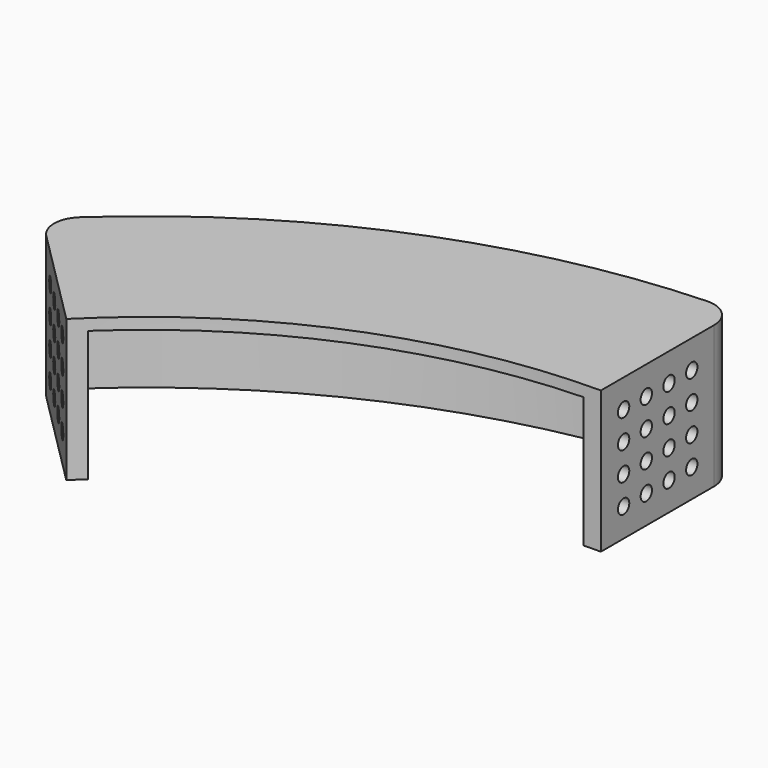
from build123d import *

# Parameters (mm, degrees)
F1_DEPTH = 25
F3_DEPTH = 23
F4_R     = 1.25
F5_DEPTH = 3
F6_R     = 1.25
F7_DEPTH = 3


with BuildPart() as f1:
    # F0 (on Top) → F1 (new body)
    with BuildSketch(Plane.XY):
        with BuildLine():
            ThreePointArc((-70.7106781187, 70.7106781187), (-38.2683432365, 92.3879532511), (0, 100))
            Line((0, 100), (0, 124.899959968))
            ThreePointArc((0, 124.899959968), (-1.5358983849, 128.5055112434), (-5.2, 129.8959583667))
            ThreePointArc((-5.2, 129.8959583667), (-49.7488462075, 120.1043392265), (-88.1733577476, 95.527268272))
            ThreePointArc((-88.1733577476, 95.527268272), (-89.7810742569, 91.9531625832), (-88.3176086633, 88.3176086633))
            Line((-88.3176086633, 88.3176086633), (-70.7106781187, 70.7106781187))
        make_face()
    extrude(amount=F1_DEPTH)

    # F2 (on face) → F3 (cut)
    with BuildSketch(Plane(origin=(0, 0, 0), x_dir=(1, 0, 0), z_dir=(0, 0, -1))):
        with BuildLine():
            ThreePointArc((-86.1962913084, -90.4389260182), (-86.7816787829, -91.8931506594), (-86.1385908202, -93.3227959561))
            ThreePointArc((-86.1385908202, -93.3227959561), (-48.6007975278, -117.3327045338), (-5.0800001691, -126.8983635506))
            ThreePointArc((-5.0800001691, -126.8983635506), (-3.6143564257, -126.342183526), (-2.9999957734, -124.899959968))
            Line((-2.9999957734, -124.899959968), (-2.9999957734, -102.9562973047))
            Line((-2.9999957734, -102.9562973047), (-2.9999957734, -99.9549899973))
            ThreePointArc((-2.9999957734, -99.9549899973), (-38.2683432365, -92.3879532511), (-68.5575338856, -72.8001685954))
            Line((-68.5575338856, -72.8001685954), (-70.6797786351, -74.9224133449))
            Line((-70.6797786351, -74.9224133449), (-86.1962913084, -90.4389260182))
        make_face()
    extrude(amount=-F3_DEPTH, mode=Mode.SUBTRACT)

    # F4 (on face) → F5 (cut)
    with BuildSketch(Plane(origin=(0, 0, 0), x_dir=(0.7071067812, -0.7071067812, 0), z_dir=(-0.7071067812, -0.7071067812, 0))):
        with Locations((-105, 20)):
            Circle(F4_R)
        with Locations((-105, 15)):
            Circle(F4_R)
        with Locations((-105, 10)):
            Circle(F4_R)
        with Locations((-105, 5)):
            Circle(F4_R)
        with Locations((-110, 20)):
            Circle(F4_R)
        with Locations((-110, 15)):
            Circle(F4_R)
        with Locations((-110, 10)):
            Circle(F4_R)
        with Locations((-110, 5)):
            Circle(F4_R)
        with Locations((-115, 20)):
            Circle(F4_R)
        with Locations((-115, 15)):
            Circle(F4_R)
        with Locations((-115, 10)):
            Circle(F4_R)
        with Locations((-115, 5)):
            Circle(F4_R)
        with Locations((-120, 20)):
            Circle(F4_R)
        with Locations((-120, 15)):
            Circle(F4_R)
        with Locations((-120, 10)):
            Circle(F4_R)
        with Locations((-120, 5)):
            Circle(F4_R)
    extrude(amount=-F5_DEPTH, mode=Mode.SUBTRACT)

    # F6 (on face) → F7 (cut)
    with BuildSketch(Plane.YZ):
        with Locations((105, 20)):
            Circle(F6_R)
        with Locations((105, 15)):
            Circle(F6_R)
        with Locations((105, 10)):
            Circle(F6_R)
        with Locations((105, 5)):
            Circle(F6_R)
        with Locations((110, 20)):
            Circle(F6_R)
        with Locations((110, 15)):
            Circle(F6_R)
        with Locations((110, 10)):
            Circle(F6_R)
        with Locations((110, 5)):
            Circle(F6_R)
        with Locations((115, 20)):
            Circle(F6_R)
        with Locations((115, 15)):
            Circle(F6_R)
        with Locations((115, 10)):
            Circle(F6_R)
        with Locations((115, 5)):
            Circle(F6_R)
        with Locations((120, 20)):
            Circle(F6_R)
        with Locations((120, 15)):
            Circle(F6_R)
        with Locations((120, 10)):
            Circle(F6_R)
        with Locations((120, 5)):
            Circle(F6_R)
    extrude(amount=-F7_DEPTH, mode=Mode.SUBTRACT)


solid = f1.part
